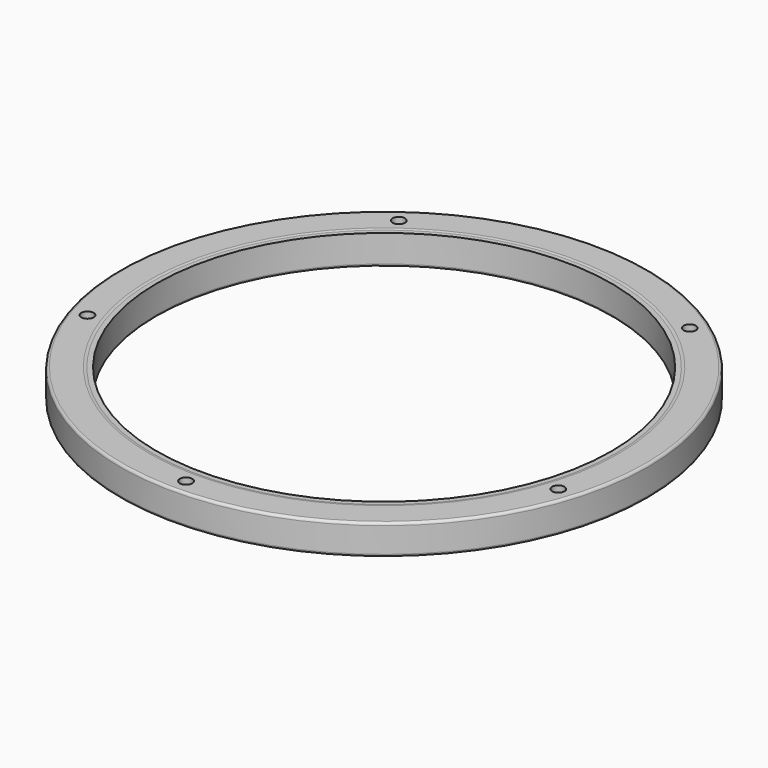
from build123d import *

# Parameters (mm, degrees)
F0_R     = 52.25
F0_R_2   = 1.225
F0_R_3   = 45
F1_DEPTH = 6
F2_R     = 1.5
F3_DEPTH = 5.9
F4_R     = 0.5


with BuildPart() as f1:
    # F0 (on Top) → F1 (new body)
    with BuildSketch(Plane.XY):
        Circle(F0_R)
        with Locations((-46.601769, -15.141833)):
            Circle(F0_R_2, mode=Mode.SUBTRACT)
        with Locations((0, -49)):
            Circle(F0_R_2, mode=Mode.SUBTRACT)
        with Locations((46.601769, -15.141833)):
            Circle(F0_R_2, mode=Mode.SUBTRACT)
        with Locations((-28.801477, 39.641833)):
            Circle(F0_R_2, mode=Mode.SUBTRACT)
        Circle(F0_R_3, mode=Mode.SUBTRACT)
        with Locations((28.801477, 39.641833)):
            Circle(F0_R_2, mode=Mode.SUBTRACT)
    extrude(amount=F1_DEPTH)

    # F2
    f2_edges = [f1.edges().sort_by_distance(p)[0] for p in [
        (-45, 0, 6),
    ]]
    fillet(f2_edges, radius=F2_R)

    # F0 (on Top) → F3 (join)
    with BuildSketch(Plane.XY):
        Circle(F0_R)
        with Locations((-46.601769, -15.141833)):
            Circle(F0_R_2, mode=Mode.SUBTRACT)
        with Locations((0, -49)):
            Circle(F0_R_2, mode=Mode.SUBTRACT)
        with Locations((46.601769, -15.141833)):
            Circle(F0_R_2, mode=Mode.SUBTRACT)
        with Locations((-28.801477, 39.641833)):
            Circle(F0_R_2, mode=Mode.SUBTRACT)
        Circle(F0_R_3, mode=Mode.SUBTRACT)
        with Locations((28.801477, 39.641833)):
            Circle(F0_R_2, mode=Mode.SUBTRACT)
    extrude(amount=F3_DEPTH)

    # F4
    f4_edges = [f1.edges().sort_by_distance(p)[0] for p in [
        (-45, 0, 0),
        (-52.25, 0, 0),
        (-52.25, 0, 6),
    ]]
    fillet(f4_edges, radius=F4_R)


solid = f1.part
